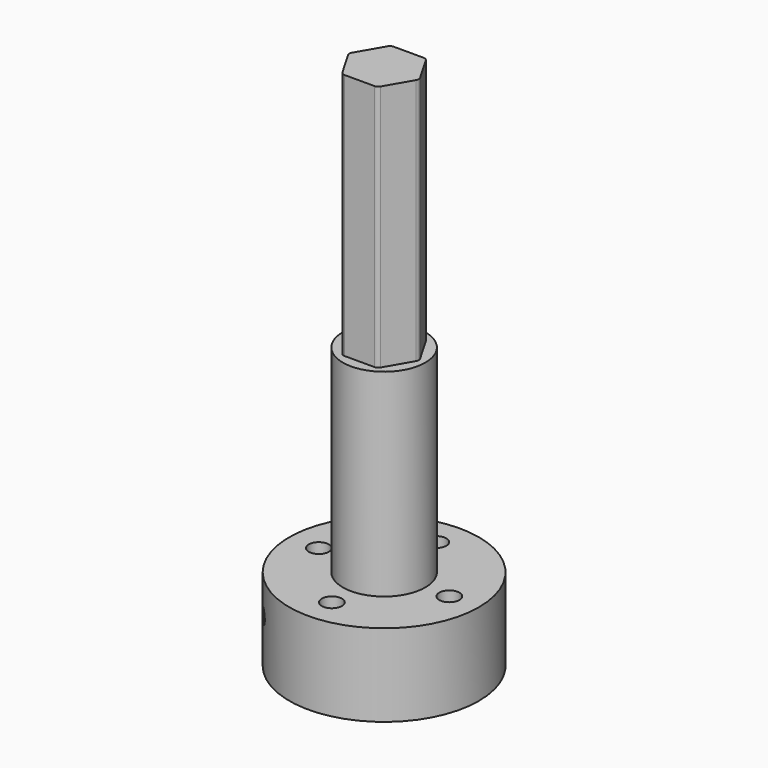
from build123d import *

# Parameters (mm, degrees)
F0_R      = 14.605
F1_DEPTH  = 12.7
F2_R      = 6.35
F3_DEPTH  = 30.48
F5_DEPTH  = 38.1
F6_R      = 8.255
F7_DEPTH  = 2.3
F8_R      = 5.06
F9_DEPTH  = 4.1
F11_D     = 3.1
F12_R     = 0.762
F13_R     = 4
F14_DEPTH = 33.02
F20_D     = 2.2606
F20_DEPTH = 12.7
F20_START = 0.0438035
F20_TIP   = 0.6791527577


with BuildPart() as f1:
    # F0 (on Top) → F1 (new body)
    with BuildSketch(Plane.XY):
        Circle(F0_R)
    extrude(amount=F1_DEPTH)

    # F2 (on face) → F3 (join)
    with BuildSketch(Plane.XY.offset(12.7)):
        Circle(F2_R)
    extrude(amount=F3_DEPTH)

    # F4 (on face) → F5 (join)
    with BuildSketch(Plane.XY.offset(43.18)):
        Polygon((2.7276336118, -4.7244), (5.4552672235, 0), (2.7276336118, 4.7244), (-2.7276336118, 4.7244), (-5.4552672235, 0), (-2.7276336118, -4.7244), align=None)
    extrude(amount=F5_DEPTH)

    # F6 (on face) → F7 (cut)
    with BuildSketch(Plane(origin=(0, 0, 0), x_dir=(1, 0, 0), z_dir=(0, 0, -1))):
        Circle(F6_R)
    extrude(amount=-F7_DEPTH, mode=Mode.SUBTRACT)

    # F8 (on face) → F9 (cut)
    with BuildSketch(Plane(origin=(0, 0, 0), x_dir=(1, 0, 0), z_dir=(0, 0, -1))):
        Circle(F8_R)
    extrude(amount=-F9_DEPTH, mode=Mode.SUBTRACT)

    # F11 (through all)
    with Locations(Plane.XY.offset(12.7)):
        with Locations((0, -10.05), (-10.05, 0), (0, 10.05), (10.05, 0)):
            Hole(F11_D / 2)

    # F12
    f12_edges = [f1.edges().sort_by_distance(p)[0] for p in [
        (-2.727634, -4.7244, 62.23),
        (2.727634, -4.7244, 62.23),
        (5.455267, 0, 62.23),
        (2.727634, 4.7244, 62.23),
        (-2.727634, 4.7244, 62.23),
        (-5.455267, 0, 62.23),
    ]]
    fillet(f12_edges, radius=F12_R)

    # F13 (on face) → F14 (cut)
    with BuildSketch(Plane(origin=(0, 0, 0), x_dir=(1, 0, 0), z_dir=(0, 0, -1))):
        Circle(F13_R)
    extrude(amount=-F14_DEPTH, mode=Mode.SUBTRACT)

    # F20
    # its depths count from where the whole tool has entered the part; down to there all is cleared
    with Locations(Plane(origin=(-10.3272945392, -10.3272945392, 0), x_dir=(-0.7071067812, 0.7071067812, 0), z_dir=(-0.7071067812, -0.7071067812, 0)).offset(-F20_START)):
        with Locations((0, -7.62)):
            Hole(F20_D / 2, depth=F20_DEPTH)
            with Locations((0, 0, -(F20_DEPTH + F20_TIP / 2))):  # 118° drill point
                Cone(0, F20_D / 2, F20_TIP, mode=Mode.SUBTRACT)


solid = f1.part
